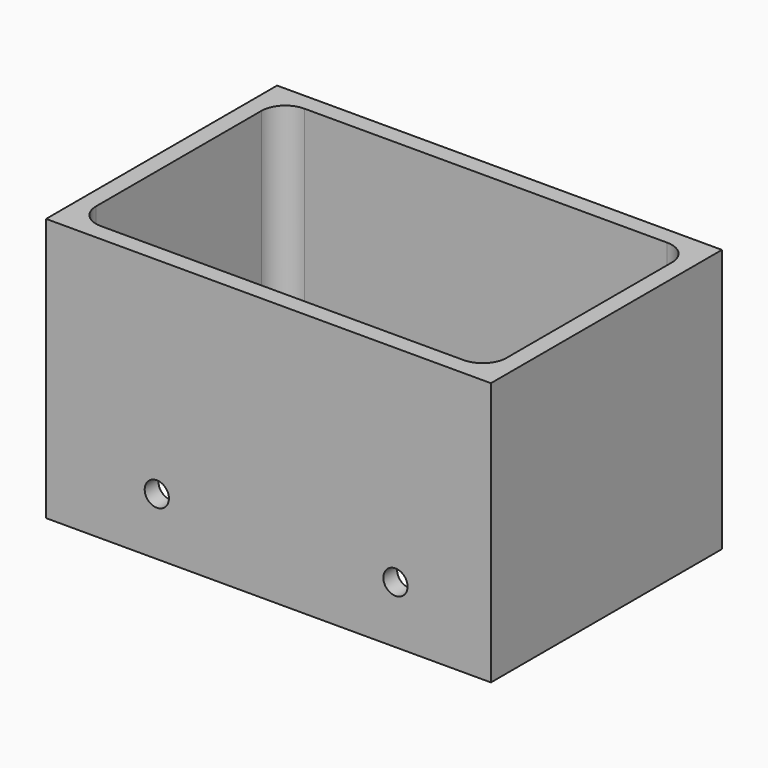
from build123d import *

# Parameters (mm, degrees)
F0_W     = 118.364
F0_H     = 76.835
F1_DEPTH = 70.104
F2_R     = 3.2258
F3_DEPTH = 25.4


with BuildPart() as f1:
    # F0 (on Top) → F1 (new body)
    with BuildSketch(Plane.XY):
        Rectangle(F0_W, F0_H)
        with BuildLine():
            ThreePointArc((-54.61, 27.4955), (-52.750128, 31.985628), (-48.26, 33.8455))
            Line((-48.26, 33.8455), (48.26, 33.8455))
            ThreePointArc((48.26, 33.8455), (52.750128, 31.985628), (54.61, 27.4955))
            Line((54.61, 27.4955), (54.61, -27.4955))
            ThreePointArc((54.61, -27.4955), (52.750128, -31.985628), (48.26, -33.8455))
            Line((48.26, -33.8455), (-48.26, -33.8455))
            ThreePointArc((-48.26, -33.8455), (-52.750128, -31.985628), (-54.61, -27.4955))
            Line((-54.61, -27.4955), (-54.61, 27.4955))
        make_face(mode=Mode.SUBTRACT)
    extrude(amount=F1_DEPTH)

    # F2 (on face) → F3 (cut)
    with BuildSketch(Plane.XZ.offset(38.4175)):
        with Locations((33.782, 15.24)):
            Circle(F2_R)
        with Locations((-29.718, 15.24)):
            Circle(F2_R)
    extrude(amount=-F3_DEPTH, mode=Mode.SUBTRACT)


solid = f1.part
